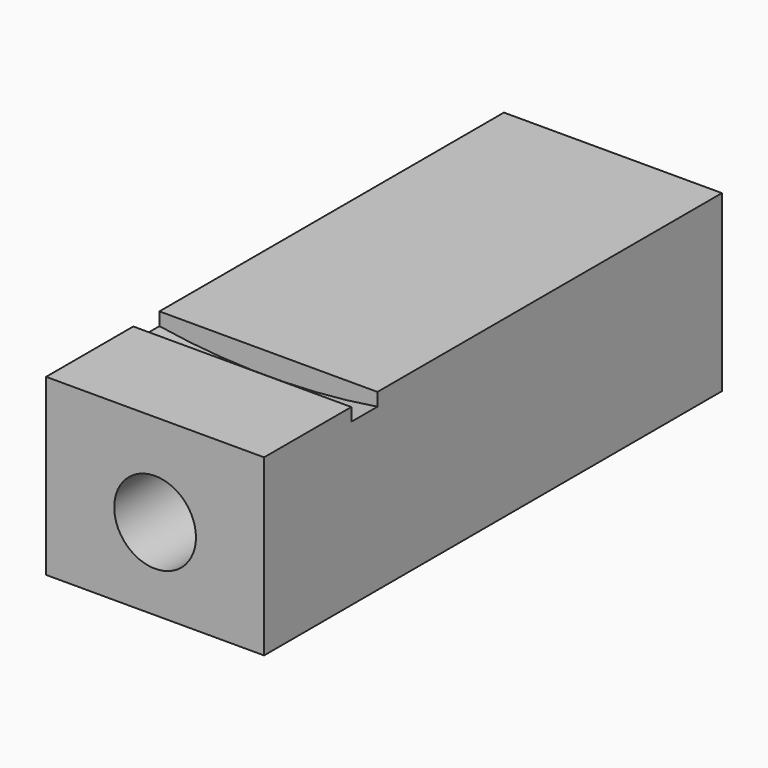
from build123d import *

# Parameters (mm, degrees)
F0_W      = 40
F0_H      = 32
F1_DEPTH  = 105
F2_R      = 7.5
F3_DEPTH  = 75
F4_R      = 3
F5_DEPTH  = 105.001
F7_R      = 125
F8_DEPTH  = 6
F10_R     = 1.5
F11_DEPTH = 8
F13_R     = 3
F14_DEPTH = 10
F16_R     = 2.75
F17_DEPTH = 11.7


with BuildPart() as f1:
    # F0 (on Front) → F1 (new body)
    with BuildSketch(Plane.XZ):
        with Locations((-20, 16)):
            Rectangle(F0_W, F0_H)
    extrude(amount=-F1_DEPTH)

    # F2 (on face) → F3 (cut)
    with BuildSketch(Plane.XZ):
        with Locations((-20, 15)):
            Circle(F2_R)
    extrude(amount=-F3_DEPTH, mode=Mode.SUBTRACT)

    # F4 (on Front) → F5 (cut, through all)
    with BuildSketch(Plane.XZ):
        with Locations((-20, 10.5)):
            Circle(F4_R)
    extrude(amount=-F5_DEPTH, mode=Mode.SUBTRACT)

    # F7 (on offset) → F8 (cut)
    with BuildSketch(Plane.XZ.offset(-20)):
        with Locations((-20, 153)):
            Circle(F7_R)
    extrude(amount=-F8_DEPTH, mode=Mode.SUBTRACT)

    # F10 (on offset) → F11 (cut)
    with BuildSketch(Plane.XY.offset(32)):
        with Locations((-20, 23)):
            Circle(F10_R)
    extrude(amount=-F11_DEPTH, mode=Mode.SUBTRACT)

    # F13 (on offset) → F14 (cut)
    with BuildSketch(Plane(origin=(0, 105, 0), x_dir=(-1, 0, 0), z_dir=(0, 1, 0))):
        with Locations((10, 8)):
            Circle(F13_R)
        with Locations((30, 8)):
            Circle(F13_R)
    extrude(amount=-F14_DEPTH, mode=Mode.SUBTRACT)

    # F16 (on offset) → F17 (cut)
    with BuildSketch(Plane(origin=(0, 0, 0), x_dir=(1, 0, 0), z_dir=(0, 0, -1))):
        with Locations((-20, -95)):
            Circle(F16_R)
    extrude(amount=-F17_DEPTH, mode=Mode.SUBTRACT)


solid = f1.part
